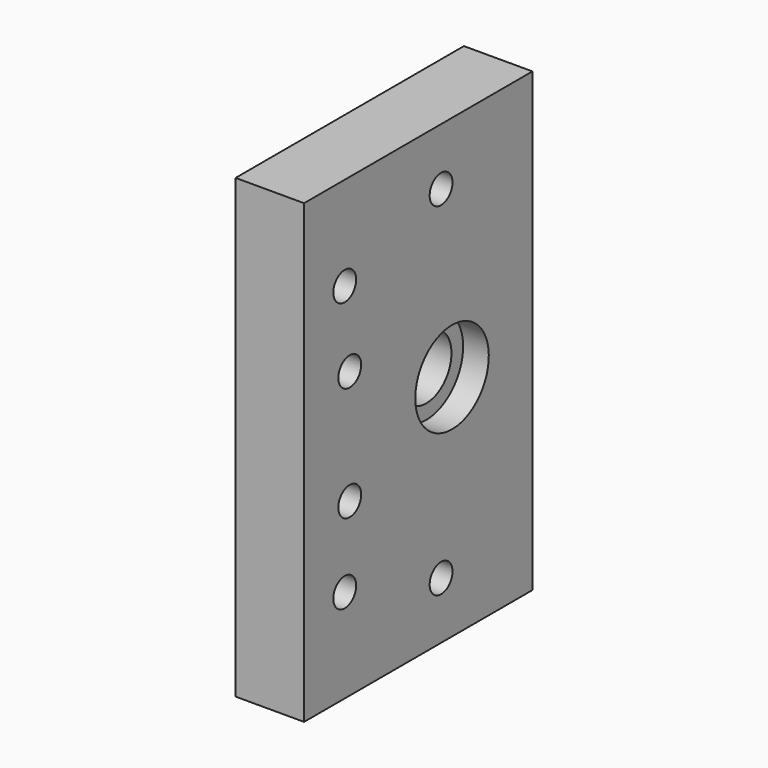
from build123d import *

# Parameters (mm, degrees)
SKETCH115_W     = 80
SKETCH115_H     = 50
SKETCH115_R     = 2.5
SKETCH115_R_2   = 5.5
PAD037_DEPTH    = 12
SKETCH116_R     = 2.5
POCKET074_DEPTH = 11
SKETCH117_R     = 8.05
POCKET075_DEPTH = 4.5
SKETCH118_R     = 4.6
SKETCH118_R_2   = 4.624594
SKETCH118_R_3   = 4.583454
SKETCH118_R_4   = 4.624604
POCKET076_DEPTH = 1.55


with BuildPart() as part:
    # Sketch115 → Pad037 (new body)
    with BuildSketch(Plane(origin=(78, -10, 260), x_dir=(0, 0, -1), z_dir=(1, 0, 0))):
        with Locations((40, 25)):
            Rectangle(SKETCH115_W, SKETCH115_H)
        with Locations((10, 30)):
            Circle(SKETCH115_R, mode=Mode.SUBTRACT)
        with Locations((30, 10)):
            Circle(SKETCH115_R, mode=Mode.SUBTRACT)
        with Locations((16.4, 8.9)):
            Circle(SKETCH115_R, mode=Mode.SUBTRACT)
        with Locations((50, 10)):
            Circle(SKETCH115_R, mode=Mode.SUBTRACT)
        with Locations((63.6, 8.9)):
            Circle(SKETCH115_R, mode=Mode.SUBTRACT)
        with Locations((70, 30)):
            Circle(SKETCH115_R, mode=Mode.SUBTRACT)
        with Locations((40, 32.4)):
            Circle(SKETCH115_R_2, mode=Mode.SUBTRACT)
    extrude(amount=PAD037_DEPTH)

    # Sketch116 → Pocket074 (cut)
    with BuildSketch(Plane(origin=(78, 40, 260), x_dir=(0, 0, 1), z_dir=(0, 1, 0))):
        with Locations((-30.033846, 5.850095)):
            Circle(SKETCH116_R)
        with Locations((-50.003807, 5.788844)):
            Circle(SKETCH116_R)
    extrude(amount=-POCKET074_DEPTH, mode=Mode.SUBTRACT)

    # Sketch117 → Pocket075 (cut)
    with BuildSketch(Plane(origin=(90, -10, 260), x_dir=(0, 0, -1), z_dir=(1, 0, 0))):
        with Locations((40, 32.4)):
            Circle(SKETCH117_R)
    extrude(amount=-POCKET075_DEPTH, mode=Mode.SUBTRACT)

    # Sketch118 → Pocket076 (cut)
    with BuildSketch(Plane(origin=(78, -10, 260), x_dir=(0, 0, -1), z_dir=(-1, 0, 0))):
        with Locations((10, -30)):
            Circle(SKETCH118_R)
        with Locations((70, -30)):
            Circle(SKETCH118_R_2)
        with Locations((30, -10)):
            Circle(SKETCH118_R_3)
        with Locations((50, -10)):
            Circle(SKETCH118_R_4)
    extrude(amount=-POCKET076_DEPTH, mode=Mode.SUBTRACT)


solid = part.part
